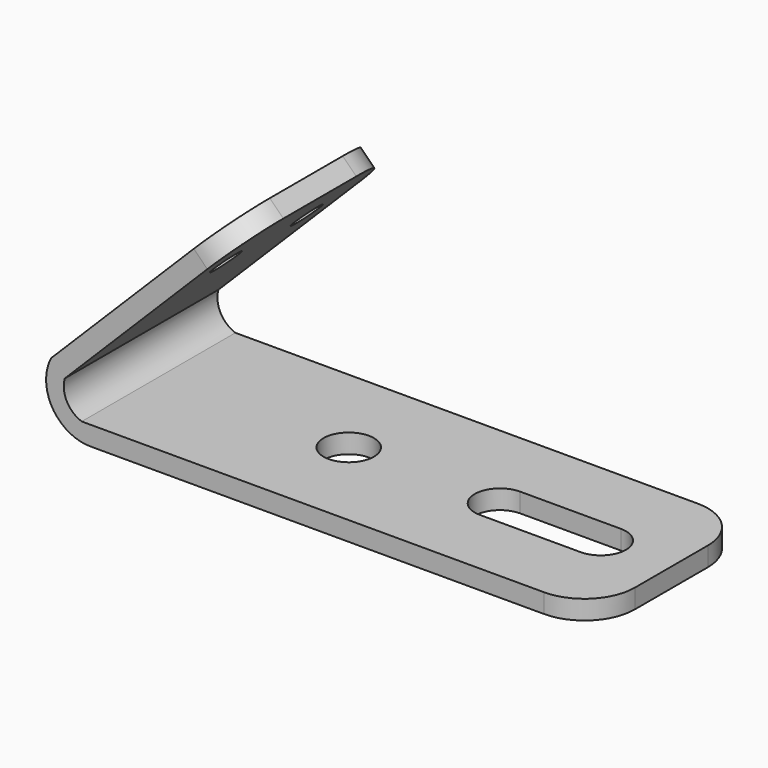
from build123d import *

# Parameters (mm, degrees)
F1_DEPTH = 483.87
F2_R     = 63.5
F3_DEPTH = 137.16
F4_R     = 127
F5_R     = 38.1
F6_DEPTH = 81.28
F7_R     = 127


with BuildPart() as f1:
    # F0 (on Front) → F1 (new body)
    with BuildSketch(Plane.XZ):
        with BuildLine():
            Line((-396.698482, -189.28613), (873.301518, -189.28613))
            Line((873.301518, -189.28613), (873.301518, -141.02613))
            Line((873.301518, -141.02613), (-418.627456, -141.02613))
            ThreePointArc((-418.627456, -141.02613), (-456.18836, -108.736454), (-461.409152, -59.480104))
            Line((-461.409152, -59.480104), (-12.396346, 389.532702))
            Line((-12.396346, 389.532702), (-46.521319, 423.657675))
            Line((-46.521319, 423.657675), (-495.534125, -25.355131))
            ThreePointArc((-495.534125, -25.355131), (-492.408796, -135.230838), (-396.698482, -189.28613))
        make_face()
    extrude(amount=F1_DEPTH)

    # F2 (on face) → F3 (cut)
    with BuildSketch(Plane.XY.offset(-141.02613)):
        with BuildLine():
            Line((441.501518, -305.435), (695.501518, -305.435))
            ThreePointArc((695.501518, -305.435), (759.001518, -241.935), (695.501518, -178.435))
            Line((695.501518, -178.435), (441.501518, -178.435))
            ThreePointArc((441.501518, -178.435), (378.001518, -241.935), (441.501518, -305.435))
        make_face()
        with Locations((60.501518, -241.935)):
            Circle(F2_R)
    extrude(amount=-F3_DEPTH, mode=Mode.SUBTRACT)

    # F4
    f4_edges = [f1.edges().sort_by_distance(p)[0] for p in [
        (873.301518, -483.87, -165.15613),
        (873.301518, 0, -165.15613),
    ]]
    fillet(f4_edges, radius=F4_R)

    # F5 (on face) → F6 (cut)
    with BuildSketch(Plane(origin=(-235.089497, 0, 235.089497), x_dir=(0, -1, 0), z_dir=(-0.707107, 0, 0.707107))):
        with Locations((369.57, 76.175675)):
            Circle(F5_R)
        with Locations((114.3, 76.175675)):
            Circle(F5_R)
    extrude(amount=-F6_DEPTH, mode=Mode.SUBTRACT)

    # F7
    f7_edges = [f1.edges().sort_by_distance(p)[0] for p in [
        (-29.458833, -483.87, 406.595189),
        (-29.458833, 0, 406.595189),
    ]]
    fillet(f7_edges, radius=F7_R)


solid = f1.part
